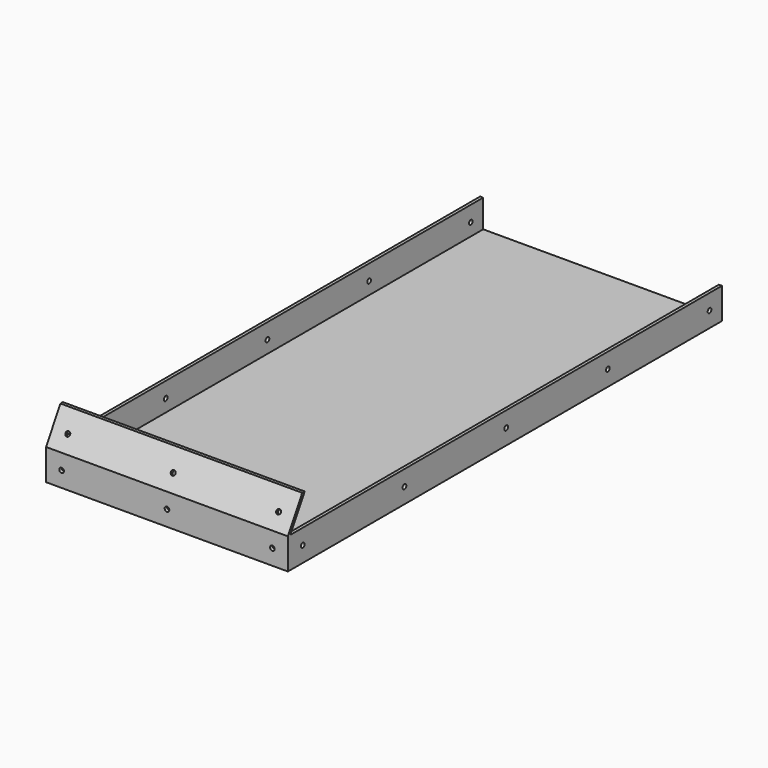
from build123d import *

# Parameters (mm, degrees)
SKETCH057_W     = 156
SKETCH057_H     = 40
PAD017_DEPTH    = 350
POCKET035_DEPTH = 156.001
SKETCH059_R     = 1.5
POCKET036_DEPTH = 5
SKETCH060_R     = 1.5
POCKET037_DEPTH = 5
SKETCH061_W     = 2
SKETCH061_H     = 18
PAD018_DEPTH    = 348
SKETCH062_R     = 1.5
POCKET038_DEPTH = 156.001


with BuildPart() as part:
    # Sketch057 (on Face1 of Binder015) → Pad017 (new body)
    with BuildSketch(Plane(origin=(0, -0.1, 0), x_dir=(-1, 0, 0), z_dir=(0, 1, 0))):
        with Locations((200, -203.2)):
            Rectangle(SKETCH057_W, SKETCH057_H)
    extrude(amount=PAD017_DEPTH)

    # Sketch058 (on Face4 of Binder015) → Pocket035 (cut, through all)
    with BuildSketch(Plane(origin=(-122, 0, 0), x_dir=(0, -1, 0), z_dir=(-1, 0, 0))):
        Polygon((-13.4470053838, -183.2), (-1.9, -203.2), (-1.9, -221.2), (-349.9, -221.2), (-349.9, -183.2), align=None)
        Polygon((0.1, -183.2), (-11.4470053838, -183.2), (0.1, -203.2), align=None)
    extrude(amount=POCKET035_DEPTH, mode=Mode.SUBTRACT)

    # Sketch059 (on Face6 of Pocket035) → Pocket036 (cut)
    with BuildSketch(Plane(origin=(0, 87.9131810245, -50.7566987298), x_dir=(1, 0, 0), z_dir=(0, -0.8660254038, 0.5))):
        with Locations((-200, -166.026362)):
            Circle(SKETCH059_R)
        with Locations((-268, -166.026362)):
            Circle(SKETCH059_R)
        with Locations((-132, -166.026362)):
            Circle(SKETCH059_R)
    extrude(amount=-POCKET036_DEPTH, mode=Mode.SUBTRACT)

    # Sketch060 (on Face4 of Pocket036) → Pocket037 (cut)
    with BuildSketch(Plane.XZ.offset(0.1)):
        with Locations((-200, -213.2)):
            Circle(SKETCH060_R)
        with Locations((-268, -213.2)):
            Circle(SKETCH060_R)
        with Locations((-132, -213.2)):
            Circle(SKETCH060_R)
    extrude(amount=-POCKET037_DEPTH, mode=Mode.SUBTRACT)

    # Sketch061 (on Face8 of Pocket037) → Pad018 (join)
    with BuildSketch(Plane(origin=(0, 1.9, 0), x_dir=(-1, 0, 0), z_dir=(0, 1, 0))):
        with Locations((277, -212.2)):
            Rectangle(SKETCH061_W, SKETCH061_H)
        with Locations((123, -212.2)):
            Rectangle(SKETCH061_W, SKETCH061_H)
    extrude(amount=PAD018_DEPTH)

    # Sketch062 (on Face18 of Pad018) → Pocket038 (cut, through all)
    with BuildSketch(Plane.YZ.offset(-122)):
        with Locations((257.9, -213.2)):
            Circle(SKETCH062_R)
        with Locations((339.9, -213.2)):
            Circle(SKETCH062_R)
        with Locations((175.9, -213.2)):
            Circle(SKETCH062_R)
        with Locations((93.9, -213.2)):
            Circle(SKETCH062_R)
        with Locations((11.9, -213.2)):
            Circle(SKETCH062_R)
    extrude(amount=-POCKET038_DEPTH, mode=Mode.SUBTRACT)


solid = part.part
